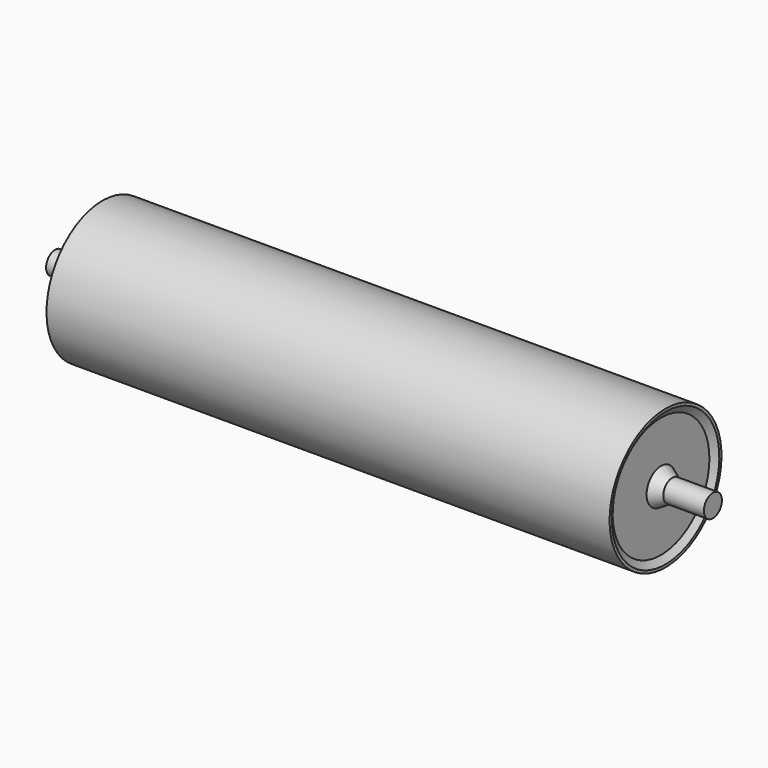
from build123d import *


with BuildPart() as f1:
    # F0 (on Front) → F1 (revolve)
    with BuildSketch(Plane.XZ):
        Polygon((614, 155), (0, 155), (-614, 155), (-614, 134), (-614, 40), (-614, 25), (-614, 0), (0, 0), (614, 0), (614, 25), (614, 40), (614, 134), align=None)
        Polygon((-614, 134), (-614, 155), (-624, 155), (-624, 149), align=None)
        Polygon((624, 155), (614, 155), (614, 134), (624, 149), align=None)
        Polygon((-614, 25), (-614, 40), (-639, 25), align=None)
        Polygon((639, 25), (614, 40), (614, 25), align=None)
        Polygon((-614, 0), (-614, 25), (-639, 25), (-729, 25), (-729, 0), align=None)
        Polygon((639, 25), (614, 25), (614, 0), (729, 0), (729, 25), align=None)
    revolve(axis=Axis((-364.5, 0, 0), (-1, 0, 0)))


solid = f1.part
